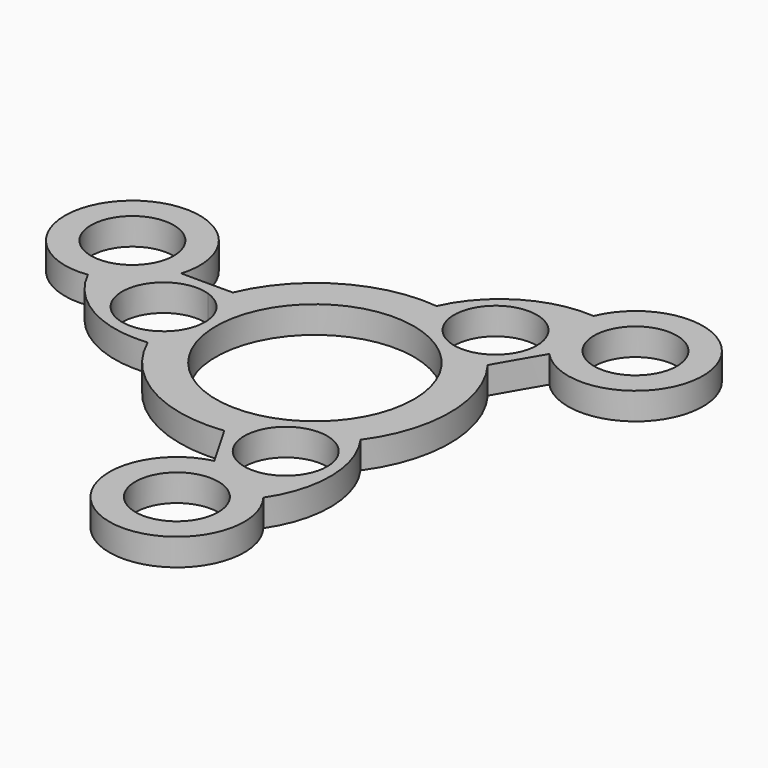
from build123d import *

# Parameters (mm, degrees)
F0_R     = 4.6
F0_R_2   = 11
F1_DEPTH = 3


with BuildPart() as f1:
    # F0 (on Top) → F1 (new body)
    with BuildSketch(Plane.XY):
        with BuildLine():
            ThreePointArc((-12.221198, 0), (-13.09972, 2.703812), (-15.39972, 4.37486))
            ThreePointArc((-15.39972, 4.37486), (-20.542676, -2.703812), (-12.221198, 0))
        make_face()
        with BuildLine():
            ThreePointArc((-25.717243, 0.613413), (-20.768262, -4.628225), (-13.708847, -6.088309))
            ThreePointArc((-13.708847, -6.088309), (-7.390457, -13.053013), (1.832519, -14.887642))
            ThreePointArc((1.832519, -14.887642), (3.274071, -17.365681), (4.695291, -19.855438))
            ThreePointArc((4.695291, -19.855438), (3.870132, -34.225211), (12.32739, -22.578492))
            ThreePointArc((12.32739, -22.578492), (14.392291, -15.67173), (12.127054, -8.828056))
            ThreePointArc((12.127054, -8.828056), (14.999469, 0.126183), (11.976816, 9.030829))
            ThreePointArc((11.976816, 9.030829), (13.402086, 11.518269), (14.847668, 13.99396))
            ThreePointArc((14.847668, 13.99396), (27.704836, 20.464238), (13.389853, 21.965079))
            ThreePointArc((13.389853, 21.965079), (6.375971, 20.299955), (1.581794, 14.916364))
            ThreePointArc((1.581794, 14.916364), (-7.609012, 12.92683), (-13.809335, 5.856813))
            ThreePointArc((-13.809335, 5.856813), (-14.364812, 5.853158), (-14.920293, 5.850385))
            ThreePointArc((-14.920293, 5.850385), (-17.231644, 5.848304), (-19.542959, 5.861478))
            ThreePointArc((-19.542959, 5.861478), (-31.574968, 13.760973), (-25.717243, 0.613413))
        make_face()
        with Locations((6.390442, -27.161357)):
            Circle(F0_R, mode=Mode.SUBTRACT)
        with Locations((8.410599, -14.567585)):
            Circle(F0_R, mode=Mode.SUBTRACT)
        with Locations((-26.717646, 8.046393)):
            Circle(F0_R, mode=Mode.SUBTRACT)
        with BuildLine():
            ThreePointArc((-12.221198, 0), (-20.542676, -2.703812), (-15.39972, 4.37486))
            ThreePointArc((-15.39972, 4.37486), (-13.09972, 2.703812), (-12.221198, 0))
        make_face(mode=Mode.SUBTRACT)
        Circle(F0_R_2, mode=Mode.SUBTRACT)
        with Locations((8.410599, 14.567585)):
            Circle(F0_R, mode=Mode.SUBTRACT)
        with Locations((20.327204, 19.114964)):
            Circle(F0_R, mode=Mode.SUBTRACT)
    extrude(amount=F1_DEPTH)


solid = f1.part
